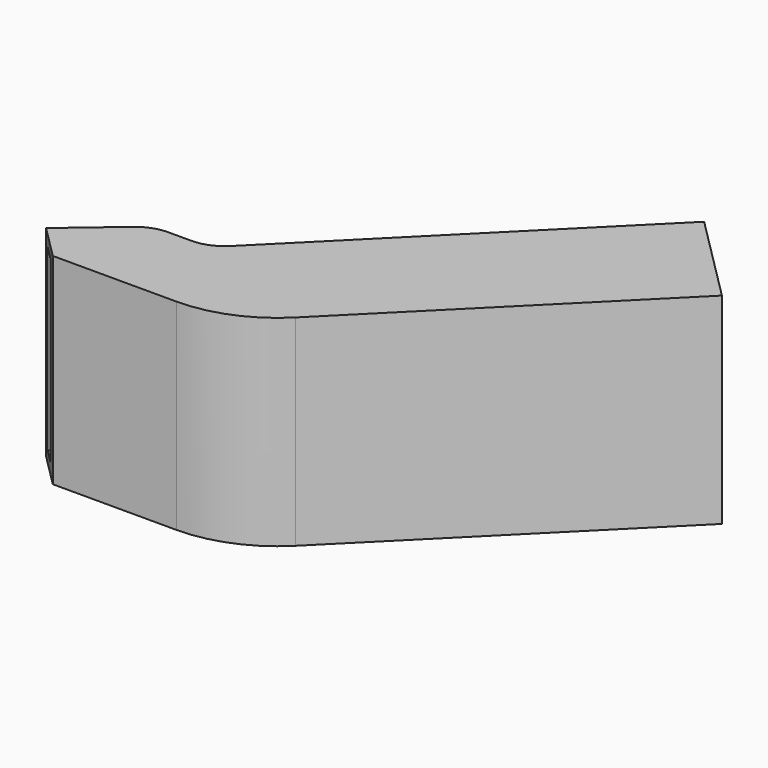
from build123d import *

# Parameters (mm, degrees)
F1_DEPTH = 24
F2_R     = 15.1
F3_T     = -1.3
F5_DEPTH = 24.001
F6_R     = 5


with BuildPart() as f1:
    # F0 (on Top) → F1 (new body)
    with BuildSketch(Plane.XY):
        Polygon((-26.533620432, -25.4221484065), (-34.1206180562, -31.880568529), (-34.1206180562, -35.880568529), (-9.1206180562, -35.880568529), (23.5945900374, -3.1653604354), (12.9879883196, 7.4412412824), (-19.8754013693, -25.4221484065), align=None)
    extrude(amount=F1_DEPTH)

    # F2
    f2_edges = [f1.edges().sort_by_distance(p)[0] for p in [
        (-9.120618, -35.880569, 12),
    ]]
    fillet(f2_edges, radius=F2_R)

    # F3
    f3_openings = [f1.faces().sort_by_distance(p)[0] for p in [
        (-34.120618, -33.880569, 12),
        (18.291289, 2.13794, 12),
    ]]
    offset(amount=F3_T, openings=f3_openings, kind=Kind.INTERSECTION)

    # F4 (on face) → F5 (cut, through all)
    with BuildSketch(Plane.XY.offset(24)):
        Polygon((-30.1206180562, -35.880568529), (-34.1206180562, -31.880568529), (-34.1206180562, -35.880568529), align=None)
    extrude(amount=-F5_DEPTH, mode=Mode.SUBTRACT)

    # F6
    f6_edges = [f1.edges().sort_by_distance(p)[0] for p in [
        (-26.53362, -25.422148, 12),
        (-19.875401, -25.422148, 12),
    ]]
    fillet(f6_edges, radius=F6_R)


solid = f1.part
